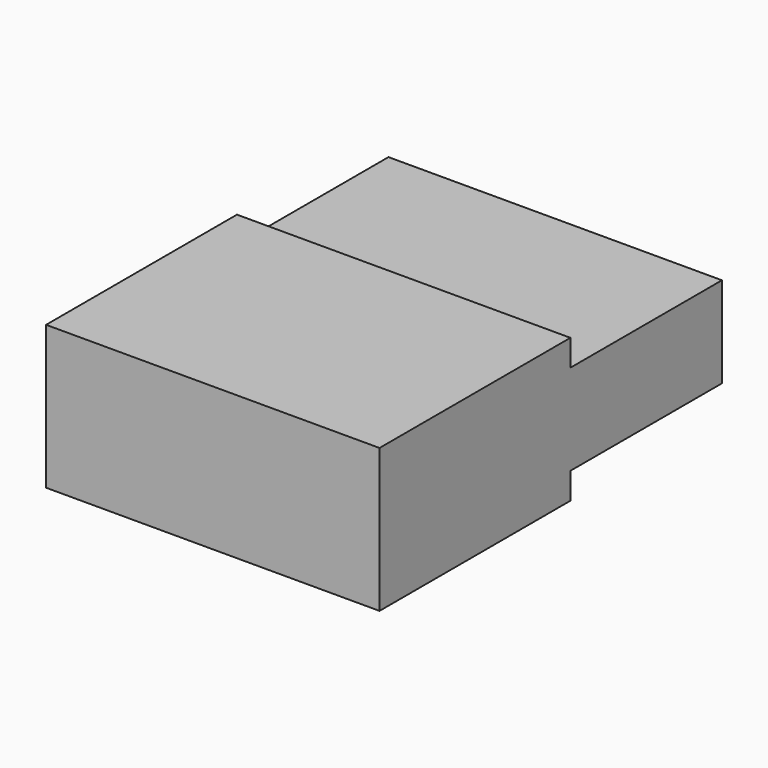
from build123d import *

# Parameters (mm, degrees)
F1_DEPTH = 28.9306


with BuildPart() as f1:
    # F0 (on Right) → F1 (new body)
    with BuildSketch(Plane.YZ):
        Polygon((0, 12.446), (0, 0), (20.701, 0), (20.701, 2.286), (37.1348, 2.286), (37.1348, 6.223), (37.1348, 10.16), (20.701, 10.16), (20.701, 12.446), align=None)
    extrude(amount=F1_DEPTH)


solid = f1.part
